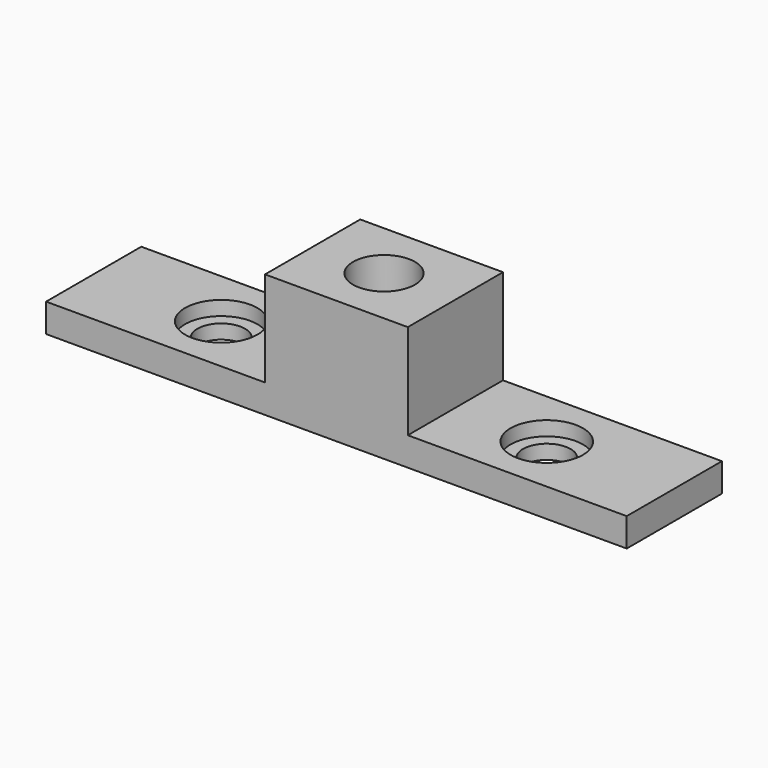
from build123d import *

# Parameters (mm, degrees)
F0_W     = 30.988
F0_H     = 6.35
F1_DEPTH = 1.524
F2_R     = 1.9304
F3_DEPTH = 0.762
F4_R     = 1.27
F5_DEPTH = 0.762
F6_W     = 7.62
F6_H     = 6.35
F7_DEPTH = 5.08
F8_R     = 1.651
F9_DEPTH = 5.08


with BuildPart() as f1:
    # F0 (on Top) → F1 (new body)
    with BuildSketch(Plane.XY):
        Rectangle(F0_W, F0_H)
    extrude(amount=F1_DEPTH)

    # F2 (on face) → F3 (cut)
    with BuildSketch(Plane.XY.offset(1.524)):
        with Locations((-8.6868, 0)):
            Circle(F2_R)
        with Locations((8.6868, 0)):
            Circle(F2_R)
    extrude(amount=-F3_DEPTH, mode=Mode.SUBTRACT)

    # F4 (on face) → F5 (cut)
    with BuildSketch(Plane.XY.offset(0.762)):
        with Locations((-8.6868, 0)):
            Circle(F4_R)
        with Locations((8.6868, 0)):
            Circle(F4_R)
    extrude(amount=-F5_DEPTH, mode=Mode.SUBTRACT)

    # F6 (on face) → F7 (join)
    with BuildSketch(Plane.XY.offset(1.524)):
        Rectangle(F6_W, F6_H)
    extrude(amount=F7_DEPTH)

    # F8 (on face) → F9 (cut)
    with BuildSketch(Plane.XY.offset(6.604)):
        Circle(F8_R)
    extrude(amount=-F9_DEPTH, mode=Mode.SUBTRACT)


solid = f1.part
